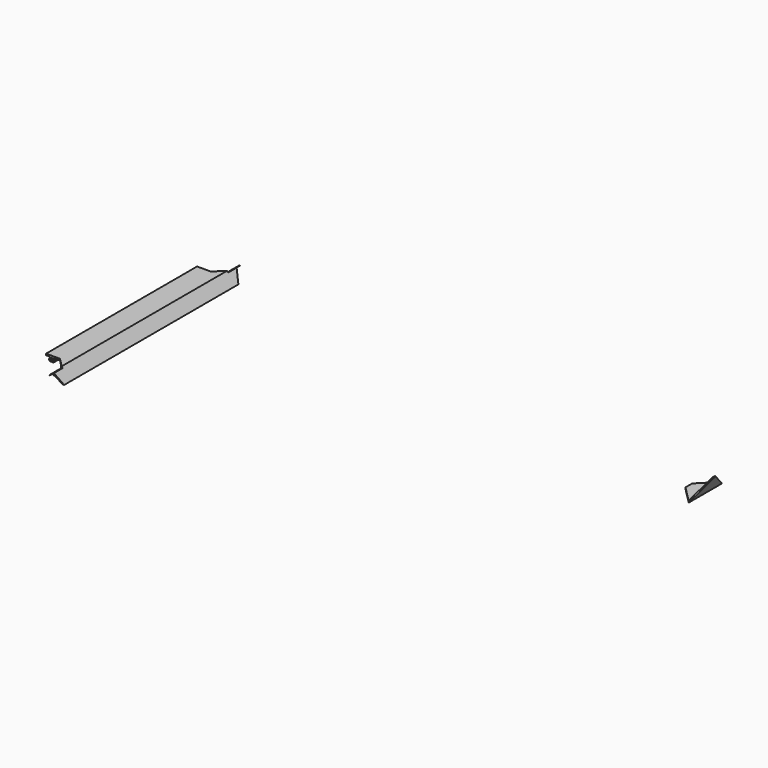
from build123d import *

# Parameters (mm, degrees)
F1_DEPTH  = 273
F2_W      = 60
F2_H      = 60
F3_DEPTH  = 25
F5_DEPTH  = 60
F7_DEPTH  = 25
F9_DEPTH  = 25
F11_DEPTH = 35
F13_DEPTH = 35
F15_DEPTH = 25
F16_W     = 34.7940474749
F16_H     = 10.6428852305
F17_DEPTH = 22
F18_W     = 28.127618134
F18_H     = 8.1855747849
F19_DEPTH = 22
F21_DEPTH = 25


with BuildPart() as f1:
    # F0 (on Front) → F1 (new body)
    with BuildSketch(Plane.XZ):
        with BuildLine():
            Line((-133.2470553492, 7.6385764419), (-133.2470553492, 6.0782490816))
            Line((-133.2470553492, 6.0782490816), (-131.7889272934, 4.4600827154))
            Line((-131.7889272934, 4.4600827154), (-130.3201019764, 4.4600827154))
            Line((-130.3201019764, 4.4600827154), (-130.3201019764, 9.8700057715))
            Line((-130.3201019764, 9.8700057715), (-129.4987696921, 9.8700057715))
            Line((-129.4987696921, 9.8700057715), (-128.6774374079, 9.8700057715))
            Line((-128.6774374079, 9.8700057715), (-128.6774374079, 4.4600827154))
            Line((-128.6774374079, 4.4600827154), (-127.2086120909, 4.4600827154))
            Line((-127.2086120909, 4.4600827154), (-125.7392460887, 6.09072046))
            Line((-125.7392460887, 6.09072046), (-125.7392460887, 7.6335056603))
            Line((-125.7392460887, 7.6335056603), (-127.2086120909, 8.2965123933))
            Line((-127.2086120909, 8.2965123933), (-126.099644159, 10.5743914377))
            Line((-126.099644159, 10.5743914377), (-124.5710669784, 10.5743914377))
            Line((-124.5710669784, 10.5743914377), (-119.5710669784, 10.5743914377))
            Line((-119.5710669784, 10.5743914377), (-111.2542399217, 10.5743914377))
            ThreePointArc((-111.2542399217, 10.5743914377), (-106.2244142949, 9.2173570262), (-102.55971796, 5.5145622705))
            Line((-102.55971796, 5.5145622705), (-96.6907253127, -4.8146524857))
            Line((-96.6907253127, -4.8146524857), (-94.6907253127, -4.8146524857))
            Line((-94.6907253127, -4.8146524857), (-104.5710669784, 12.5743914377))
            Line((-104.5710669784, 12.5743914377), (-124.5710669784, 12.5743914377))
            Line((-124.5710669784, 12.5743914377), (-134.4264724059, 12.5743914377))
            Line((-134.4264724059, 12.5743914377), (-137.6779079437, 12.5743914377))
            Line((-137.6779079437, 12.5743914377), (-137.6779079437, 10.5743914377))
            Line((-137.6779079437, 10.5743914377), (-134.4264724059, 10.5743914377))
            Line((-134.4264724059, 10.5743914377), (-132.8978952253, 10.5743914377))
            Line((-132.8978952253, 10.5743914377), (-131.7889272934, 8.2965123933))
            Line((-131.7889272934, 8.2965123933), (-133.2470553492, 7.6385764419))
        make_face()
    extrude(amount=F1_DEPTH)

    # F10 (on face) → F11 (join)
    with BuildSketch(Plane(origin=(0, 0, 0), x_dir=(-1, 0, 0), z_dir=(0, 1, 0))):
        Polygon((94.6907253127, -4.8146524857), (96.6907253127, -4.8146524857), (102.55971796, 5.5145622705), (111.2542399217, 10.5743914377), (117.6779079437, 10.5743914377), (117.6779079437, 12.5743914377), (104.5710669784, 12.5743914377), align=None)
    extrude(amount=F11_DEPTH)

    # F12 (on face) → F13 (join)
    with BuildSketch(Plane.XZ.offset(273)):
        Polygon((-104.5710669784, 12.5743914377), (-117.6779079437, 12.5743914377), (-117.6779079437, 10.5743914377), (-111.2542399217, 10.5743914377), (-102.55971796, 5.5145622705), (-96.6907253127, -4.8146524857), (-94.6907253127, -4.8146524857), align=None)
    extrude(amount=F13_DEPTH)

    # F14 (on face) → F15 (cut)
    with BuildSketch(Plane.XY.offset(12.5743914377)):
        Polygon((-117.6779079437, 35), (-117.6779079437, 0), (-104.5710669784, 13.1068409653), (-104.5710669784, 35), align=None)
        Polygon((-104.5710669784, -286.1068409653), (-117.6779079437, -273), (-117.6779079437, -308), (-104.5710669784, -308), align=None)
    extrude(amount=-F15_DEPTH, mode=Mode.SUBTRACT)

    # F16 (on face) → F17 (cut)
    with BuildSketch(Plane.XZ.offset(308)):
        with Locations((-101.3436540961, 15.8364423551)):
            Rectangle(F16_W, F16_H)
    extrude(amount=-F17_DEPTH, mode=Mode.SUBTRACT)

    # F18 (on face) → F19 (cut)
    with BuildSketch(Plane(origin=(0, 35, 0), x_dir=(-1, 0, 0), z_dir=(0, 1, 0))):
        with Locations((104.8995219171, 14.603103511)):
            Rectangle(F18_W, F18_H)
    extrude(amount=-F19_DEPTH, mode=Mode.SUBTRACT)

    # F20 (on face) → F21 (cut)
    with BuildSketch(Plane(origin=(-73.6491911658, 0, -41.8469914347), x_dir=(0, 1, 0), z_dir=(0.8694521962, 0, 0.4940170833))):
        Polygon((-293.9468324184, 42.5927257556), (-301.6275167465, 60.2241174446), (-308, 60.2241174446), (-308, 42.5927257556), align=None)
        Polygon((35, 60.2241174446), (28.6275167465, 60.2241174446), (20.9468324184, 42.5927257556), (35, 42.5927257556), align=None)
    extrude(amount=-F21_DEPTH, mode=Mode.SUBTRACT)


with BuildPart() as f3:
    # F2 (on Top) → F3 (new body)
    with BuildSketch(Plane.XY):
        with Locations((647.798807621, -55.3362455964)):
            Rectangle(F2_W, F2_H)
    extrude(amount=F3_DEPTH)

    # F4 (on face) → F5 (cut)
    with BuildSketch(Plane.XZ.offset(85.3362455964)):
        Polygon((655.9048918554, 25), (641.7000293732, 0), (677.798807621, 0), (677.798807621, 25), align=None)
        Polygon((640.8364183717, 2), (653.9048918554, 25), (617.798807621, 25), (617.798807621, 2), align=None)
    extrude(amount=-F5_DEPTH, mode=Mode.SUBTRACT)

    # F6 (on face) → F7 (cut)
    with BuildSketch(Plane(origin=(0, 0, 0), x_dir=(1, 0, 0), z_dir=(0, 0, -1))):
        Polygon((617.798807621, 61.4350238442), (641.7000293732, 85.3362455964), (617.798807621, 85.3362455964), align=None)
        Polygon((617.798807621, 25.3362455964), (641.7000293732, 25.3362455964), (617.798807621, 49.2374673486), align=None)
    extrude(amount=-F7_DEPTH, mode=Mode.SUBTRACT)

    # F8 (on face) → F9 (cut)
    with BuildSketch(Plane(origin=(485.0908720963, 0, -275.6259651805), x_dir=(0, 1, 0), z_dir=(0.8694518216, 0, -0.4940177425))):
        Polygon((-54.0899952326, 345.7649494773), (-25.3362455964, 317.0111998411), (-25.3362455964, 345.7649494773), align=None)
        Polygon((-56.5824959602, 345.7649494773), (-85.3362455964, 345.7649494773), (-85.3362455964, 317.0111998411), align=None)
    extrude(amount=-F9_DEPTH, mode=Mode.SUBTRACT)


solid = Compound([f1.part, f3.part])
